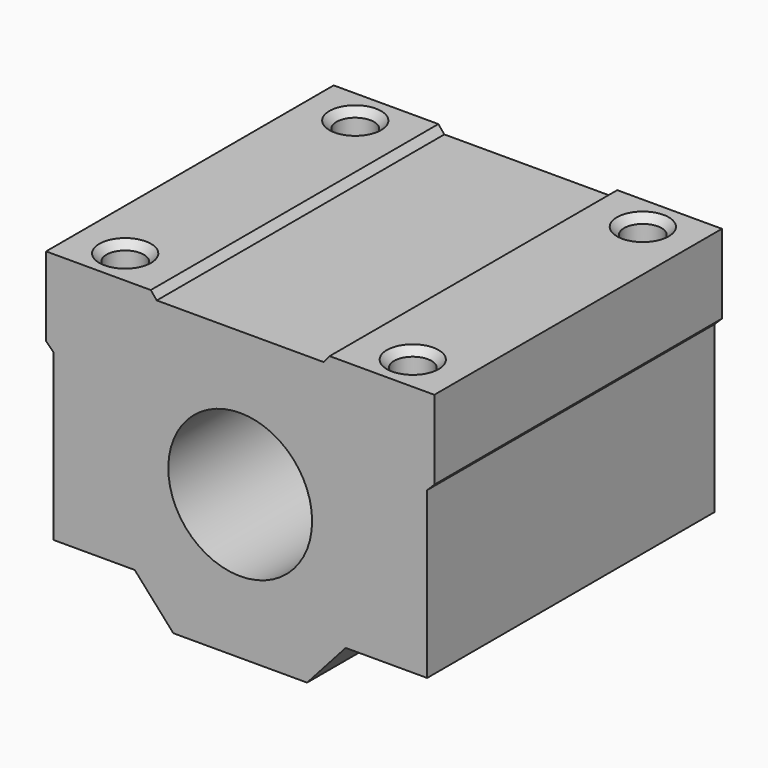
from build123d import *

# Parameters (mm, degrees)
F0_W     = 1
F0_H     = 11
F1_DEPTH = 25
F3_DEPTH = 50
F4_R     = 2.6
F5_DEPTH = 41.001
F6_SIZE  = 1


with BuildPart() as f1:
    # F0 (on Front) → F1 (new body, symmetric)
    with BuildSketch(Plane.XZ):
        with Locations((26.5, 15.5)):
            Rectangle(F0_W, F0_H)
        with Locations((-26.5, 15.5)):
            Rectangle(F0_W, F0_H)
        Polygon((9.3024417906, -20), (14.6689019081, -14), (-14.6689019081, -14), (-9.3024417906, -20), align=None)
        Polygon((26, 10), (26, 9), (27, 10), align=None)
        Polygon((-27, 10), (-26, 9), (-26, 10), align=None)
        with BuildLine():
            ThreePointArc((4.3588989435, 9), (8.4731632061, 5.310885546), (10, 0))
            ThreePointArc((10, 0), (-5.310885546, -8.4731632061), (-4.3588989435, 9))
            Line((-4.3588989435, 9), (-26, 9))
            Line((-26, 9), (-26, -14))
            Line((-26, -14), (-14.6689019081, -14))
            Line((-14.6689019081, -14), (14.6689019081, -14))
            Line((14.6689019081, -14), (26, -14))
            Line((26, -14), (26, 9))
            Line((26, 9), (4.3588989435, 9))
        make_face()
        with BuildLine():
            Line((-26, 9), (-4.3588989435, 9))
            ThreePointArc((-4.3588989435, 9), (-2.2360679957, 9.7467943406), (-3.73e-08, 10))
            Line((-3.73e-08, 10), (-26, 10))
            Line((-26, 10), (-26, 9))
        make_face()
        Polygon((-26, 10), (-3.73e-08, 10), (26, 10), (26, 21), (-26, 21), align=None)
        with BuildLine():
            ThreePointArc((-3.73e-08, 10), (2.2360679593, 9.746794349), (4.3588989435, 9))
            Line((4.3588989435, 9), (26, 9))
            Line((26, 9), (26, 10))
            Line((26, 10), (-3.73e-08, 10))
        make_face()
    extrude(amount=F1_DEPTH, both=True)

    # F2 (on Front) → F3 (cut, symmetric)
    with BuildSketch(Plane.XZ):
        Polygon((11.6050554439, 20), (12.4383887773, 21), (-12.4383887773, 21), (-11.6050554439, 20), align=None)
    extrude(amount=F3_DEPTH, both=True, mode=Mode.SUBTRACT)

    # F4 (on face) → F5 (cut, through all)
    with BuildSketch(Plane.XY.offset(21)):
        with Locations((20, 20)):
            Circle(F4_R)
        with Locations((-20, 20)):
            Circle(F4_R)
        with Locations((-20, -20)):
            Circle(F4_R)
        with Locations((20, -20)):
            Circle(F4_R)
    extrude(amount=-F5_DEPTH, mode=Mode.SUBTRACT)

    # F6
    f6_edges = [f1.edges().sort_by_distance(p)[0] for p in [
        (17.4, -20, 21),
        (-22.6, -20, 21),
        (-22.6, 20, 21),
        (17.4, 20, 21),
        (17.4, 20, -14),
        (-22.6, 20, -14),
        (17.4, -20, -14),
        (-22.6, -20, -14),
    ]]
    chamfer(f6_edges, length=F6_SIZE)


solid = f1.part
